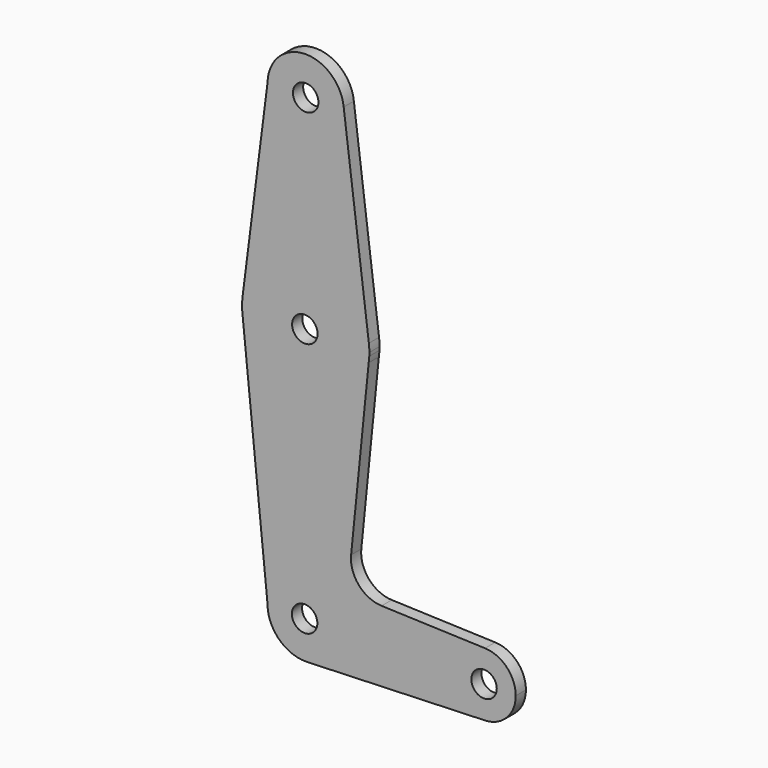
from build123d import *

# Parameters (mm, degrees)
F0_R     = 3.175
F1_DEPTH = 3.175


with BuildPart() as f1:
    # F0 (on Front) → F1 (new body)
    with BuildSketch(Plane.XZ):
        with BuildLine():
            ThreePointArc((-137.9839178575, 109.1836497097), (-128.5442276723, 99.4913569695), (-118.9353935854, 109.0159880304))
            ThreePointArc((-118.9353935854, 109.0159880304), (-118.9487352752, 109.5199534958), (-118.9887229692, 110.0225071499))
            ThreePointArc((-118.9887229692, 110.0225071499), (-128.88062287, 118.5317135597), (-137.9839178575, 109.1836497097))
        make_face()
        with Locations((-128.4603935854, 109.0159880304)):
            Circle(F0_R, mode=Mode.SUBTRACT)
        with BuildLine():
            ThreePointArc((-118.9887229692, 110.0225071499), (-118.9487352752, 109.5199534958), (-118.9353935854, 109.0159880304))
            ThreePointArc((-118.9353935854, 109.0159880304), (-128.5442276723, 99.4913569695), (-137.9839178575, 109.1836497097))
            Line((-137.9839178575, 109.1836497097), (-144.1692500808, 60.5067199238))
            ThreePointArc((-144.1692500808, 60.5067199238), (-128.3060922633, 74.0902381262), (-112.7099765808, 60.2009286289))
            Line((-112.7099765808, 60.2009286289), (-118.9887229692, 110.0225071499))
        make_face()
        with BuildLine():
            ThreePointArc((-112.5853935854, 58.2159880304), (-112.6165699473, 59.2104112429), (-112.7099765808, 60.2009286289))
            ThreePointArc((-112.7099765808, 60.2009286289), (-128.3060922633, 74.0902381262), (-144.1692500808, 60.5067199238))
            Line((-144.1692500808, 60.5067199238), (-144.2429350358, 59.9268388031))
            ThreePointArc((-144.2429350358, 59.9268388031), (-144.3341907576, 58.4114063954), (-144.2802692603, 56.894186747))
            Line((-144.2802692603, 56.894186747), (-144.2240058625, 56.33871528))
            ThreePointArc((-144.2240058625, 56.33871528), (-128.6852459771, 42.3425805071), (-112.7562799888, 55.8929638929))
            Line((-112.7562799888, 55.8929638929), (-112.6077642758, 57.3735101539))
            ThreePointArc((-112.6077642758, 57.3735101539), (-112.5909872435, 57.7946006136), (-112.5853935854, 58.2159880304))
        make_face()
        with Locations((-128.678560257, 58.1024922431)):
            Circle(F0_R, mode=Mode.SUBTRACT)
        with BuildLine():
            Line((-144.2429350358, 59.9268388031), (-144.1692500808, 60.5067199238))
            ThreePointArc((-144.1692500808, 60.5067199238), (-144.208761808, 60.2171185426), (-144.2429350358, 59.9268388031))
        make_face()
        with BuildLine():
            ThreePointArc((-112.7562799888, 55.8929638929), (-112.6646659979, 56.6314960047), (-112.6077642758, 57.3735101539))
            Line((-112.6077642758, 57.3735101539), (-112.7562799888, 55.8929638929))
        make_face()
        with BuildLine():
            Line((-144.2240058625, 56.33871528), (-144.2802692603, 56.894186747))
            ThreePointArc((-144.2802692603, 56.894186747), (-144.2545796974, 56.6162036509), (-144.2240058625, 56.33871528))
        make_face()
        with BuildLine():
            Line((-117.1313856805, 12.2777379711), (-112.7562799888, 55.8929638929))
            ThreePointArc((-112.7562799888, 55.8929638929), (-128.6852459771, 42.3425805071), (-144.2240058625, 56.33871528))
            Line((-144.2240058625, 56.33871528), (-137.9853453175, -5.2536886715))
            ThreePointArc((-137.9853453175, -5.2536886715), (-135.1848562251, 1.461892507), (-128.4603935854, 4.2409880304))
            ThreePointArc((-128.4603935854, 4.2409880304), (-128.121507256, 4.2349575679), (-127.7830500375, 4.2168738164))
            ThreePointArc((-127.7830500375, 4.2168738164), (-121.4912000212, 1.2087506216), (-118.9353944253, -5.2800119368))
            ThreePointArc((-118.9353944253, -5.2800119368), (-118.9353937954, -5.2820119531), (-118.9353935854, -5.2840119696))
            ThreePointArc((-118.9353935854, -5.2840119696), (-121.6055694499, -11.8974083036), (-128.1190179572, -14.8028925592))
            Line((-128.1190179572, -14.8028925592), (-84.0236655742, -13.2215008738))
            ThreePointArc((-84.0236655742, -13.2215008738), (-91.9465162976, -5.1361520805), (-83.7279883109, 2.648462645))
            Line((-83.7279883109, 2.648462645), (-109.5281118949, 3.5669768966))
            ThreePointArc((-109.5281118949, 3.5669768966), (-115.2165059894, 6.2754827867), (-117.1313856805, 12.2777379711))
        make_face()
        with BuildLine():
            ThreePointArc((-128.4603935854, 4.2409880304), (-135.1848562251, 1.461892507), (-137.9853453175, -5.2536886715))
            ThreePointArc((-137.9853453175, -5.2536886715), (-135.0846928869, -12.1283003741), (-128.1190179572, -14.8028925592))
            ThreePointArc((-128.1190179572, -14.8028925592), (-121.6055694499, -11.8974083036), (-118.9353935854, -5.2840119696))
            ThreePointArc((-118.9353935854, -5.2840119696), (-118.9353937954, -5.2820119531), (-118.9353944253, -5.2800119368))
            ThreePointArc((-118.9353944253, -5.2800119368), (-121.4912000212, 1.2087506216), (-127.7830500375, 4.2168738164))
            Line((-127.7830500375, 4.2168738164), (-128.4603935854, 4.2409880304))
        make_face()
        with BuildLine():
            ThreePointArc((-131.584243327, -4.0857143333), (-128.435001733, -2.3224988127), (-125.6714367719, -4.6439983917))
            ThreePointArc((-125.6714367719, -4.6439983917), (-125.5868280604, -5.0599347973), (-125.5584561348, -5.4834401235))
            ThreePointArc((-125.5584561348, -5.4834401235), (-129.450873609, -8.5763250499), (-131.584243327, -4.0857143333))
        make_face(mode=Mode.SUBTRACT)
        with BuildLine():
            ThreePointArc((-76.0728935854, -5.2840119696), (-78.2987608015, 0.2278985152), (-83.7279883109, 2.648462645))
            ThreePointArc((-83.7279883109, 2.648462645), (-91.9465162976, -5.1361520805), (-84.0236655742, -13.2215008738))
            ThreePointArc((-84.0236655742, -13.2215008738), (-78.4024278295, -10.901362442), (-76.0728935854, -5.2840119696))
        make_face()
        with Locations((-83.9816778898, -5.2882423624)):
            Circle(F0_R, mode=Mode.SUBTRACT)
    extrude(amount=F1_DEPTH)


solid = f1.part
